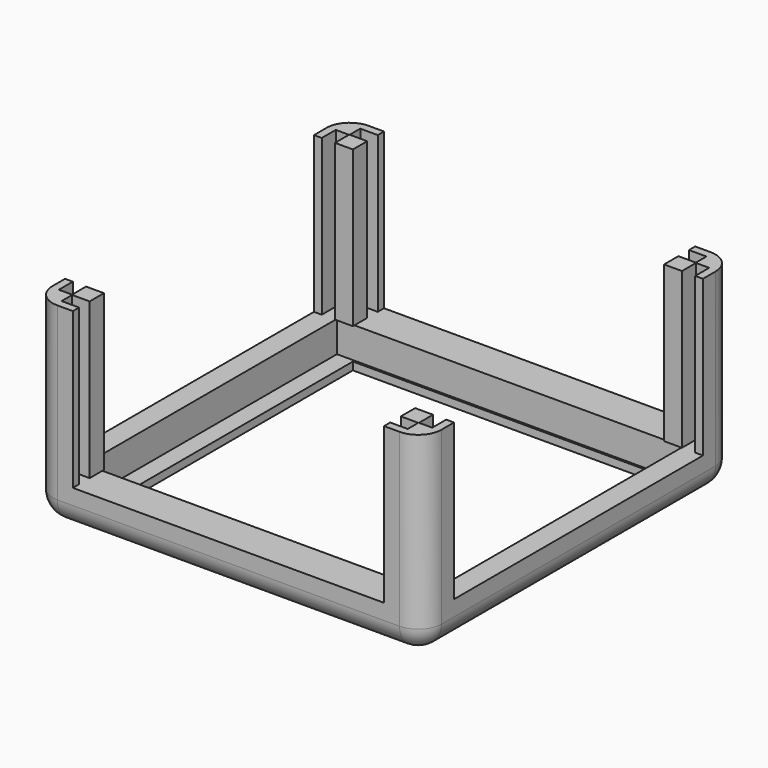
from build123d import *

# Parameters (mm, degrees)
SKETCH_W        = 50
SKETCH_H        = 50
PAD_DEPTH       = 25
FILLET_R        = 3
POCKET_DEPTH    = 20
SKETCH008_W     = 44.5
SKETCH008_H     = 40.5
POCKET001_DEPTH = 4
SKETCH009_W     = 40
SKETCH009_H     = 40
POCKET002_DEPTH = 1


with BuildPart() as part:
    # Sketch → Pad (new body)
    with BuildSketch(Plane.XY):
        Rectangle(SKETCH_W, SKETCH_H)
    extrude(amount=PAD_DEPTH)

    # Fillet
    fillet_edges = [part.edges().sort_by_distance(p)[0] for p in [
        (0, -25, 0),
        (-25, 0, 0),
        (0, 25, 0),
        (25, 0, 0),
        (-25, -25, 12.5),
        (25, 25, 12.5),
        (-25, 25, 12.5),
        (25, -25, 12.5),
    ]]
    fillet(fillet_edges, radius=FILLET_R)

    # Sketch007 (on Face2 of Fillet) → Pocket (cut)
    with BuildSketch(Plane.XY.offset(25)):
        Polygon((-20, 25), (-20, 24), (-22.25, 24), (-22.25, 22.3), (-20, 22.3), (-20, 20), (-22.3, 20), (-22.3, 22.25), (-24, 22.25), (-24, 20), (-25, 20), (-25, -20), (-24, -20), (-24, -22.25), (-22.3, -22.25), (-22.3, -20), (-20, -20), (-20, -22.3), (-22.25, -22.3), (-22.25, -24), (-20, -24), (-20, -25), (20, -25), (20, -24), (22.25, -24), (22.25, -22.3), (20, -22.3), (20, -20), (22.3, -20), (22.3, -22.25), (24, -22.25), (24, -20), (25, -20), (25, 20), (24, 20), (24, 22.25), (22.3, 22.25), (22.3, 20), (20, 20), (20, 22.3), (22.25, 22.3), (22.25, 24), (20, 24), (20, 25), align=None)
    extrude(amount=-POCKET_DEPTH, mode=Mode.SUBTRACT)

    # Sketch008 (on Face7 of Pocket) → Pocket001 (cut)
    with BuildSketch(Plane.XY.offset(5)):
        Rectangle(SKETCH008_W, SKETCH008_H)
    extrude(amount=-POCKET001_DEPTH, mode=Mode.SUBTRACT)

    # Sketch009 (on Face49 of Pocket001) → Pocket002 (cut)
    with BuildSketch(Plane.XY.offset(1)):
        Rectangle(SKETCH009_W, SKETCH009_H)
    extrude(amount=-POCKET002_DEPTH, mode=Mode.SUBTRACT)


solid = part.part
